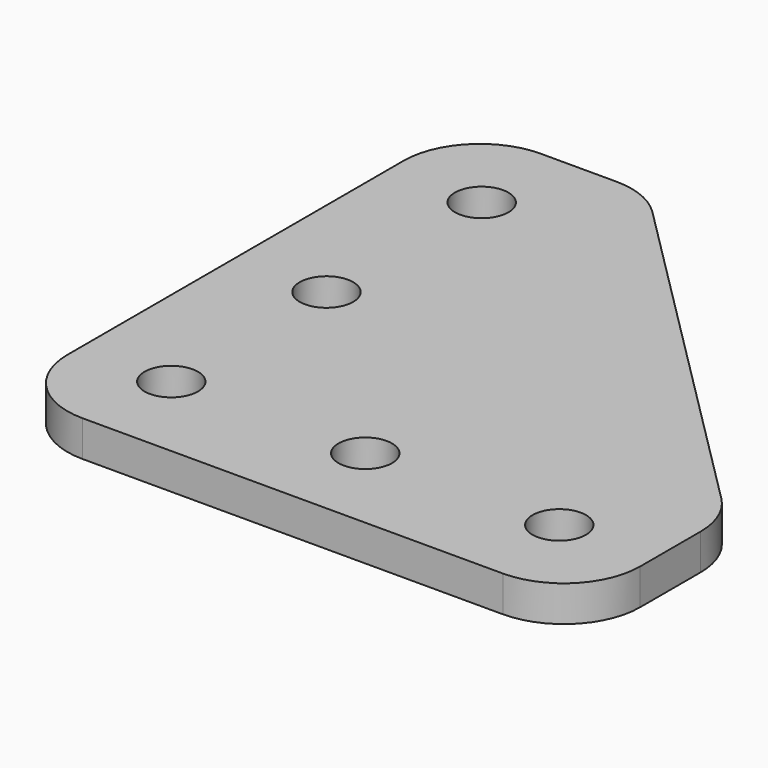
from build123d import *

# Parameters (mm, degrees)
F0_R     = 3.5
F1_DEPTH = 4.7
F2_R     = 10


with BuildPart() as f1:
    # F0 (on Top) → F1 (new body)
    with BuildSketch(Plane.XY):
        Polygon((0, 75), (0, 0), (75, 0), (75, 24), (24, 75), align=None)
        with Locations((12, 12)):
            Circle(F0_R, mode=Mode.SUBTRACT)
        with Locations((37.4, 12)):
            Circle(F0_R, mode=Mode.SUBTRACT)
        with Locations((12, 37.4)):
            Circle(F0_R, mode=Mode.SUBTRACT)
        with Locations((62.8, 12)):
            Circle(F0_R, mode=Mode.SUBTRACT)
        with Locations((12, 62.8)):
            Circle(F0_R, mode=Mode.SUBTRACT)
    extrude(amount=F1_DEPTH)

    # F2
    f2_edges = [f1.edges().sort_by_distance(p)[0] for p in [
        (75, 0, 2.35),
        (0, 0, 2.35),
        (75, 24, 2.35),
        (24, 75, 2.35),
        (0, 75, 2.35),
    ]]
    fillet(f2_edges, radius=F2_R)


solid = f1.part
